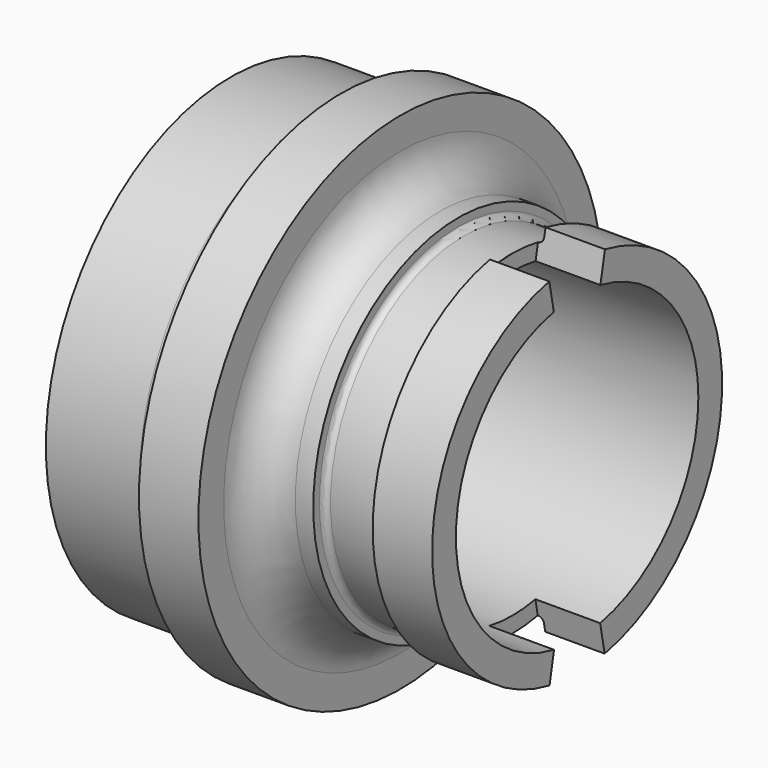
from build123d import *

# Parameters (mm, degrees)
POCKET_DEPTH    = 5.45
POCKET001_DEPTH = 5.45


with BuildPart() as part:
    # Sketch → Revolution (revolve)
    with BuildSketch(Plane.XY):
        with BuildLine():
            Line((11.816226, 18.595051), (11.816226, 21.25))
            Line((11.816226, 21.25), (6.816226, 21.25))
            Line((6.816226, 21.25), (6.816226, 20.845025))
            ThreePointArc((5.421201, 19.45), (6.407633, 19.858593), (6.816226, 20.845025))
            Line((5.421201, 19.45), (-2.457765, 19.45))
            Line((-2.457765, 19.45), (-2.457765, 17.65))
            Line((-2.457765, 17.65), (4.588942, 17.65))
            ThreePointArc((5.673634, 16.565308), (5.355935, 17.332301), (4.588942, 17.65))
            Line((5.673634, 16.565308), (5.673634, 12.75))
            Line((5.673634, 12.75), (26.673634, 12.75))
            Line((26.673634, 12.75), (26.673634, 15.25))
            Line((21.673634, 15.25), (26.673634, 15.25))
            Line((21.673634, 14.546123), (21.673634, 15.25))
            ThreePointArc((21.204032, 14.076521), (21.53609, 14.214064), (21.673634, 14.546123))
            Line((17.184618, 14.076521), (21.204032, 14.076521))
            ThreePointArc((16.673634, 14.587505), (16.823297, 14.226185), (17.184618, 14.076521))
            Line((16.673634, 15.25), (16.673634, 14.587505))
            Line((15.161277, 15.25), (16.673634, 15.25))
            ThreePointArc((11.816226, 18.595051), (12.795969, 16.229743), (15.161277, 15.25))
        make_face()
    revolve(axis=Axis((0, 0, 0), (1, 0, 0)))

    # Sketch001 (on Face11 of Revolution) → Pocket (cut)
    with BuildSketch(Plane.YZ.offset(26.673634)):
        Polygon((0, 0), (-3, -15.494095), (3, -15.494095), align=None)
    extrude(amount=-POCKET_DEPTH, mode=Mode.SUBTRACT)

    # CopySketch002 → Pocket001 (cut)
    with BuildSketch(Plane.YZ.offset(26.673634)):
        Polygon((0, 0), (-3, 15.341905), (3, 15.341905), align=None)
    extrude(amount=-POCKET001_DEPTH, mode=Mode.SUBTRACT)


solid = part.part
